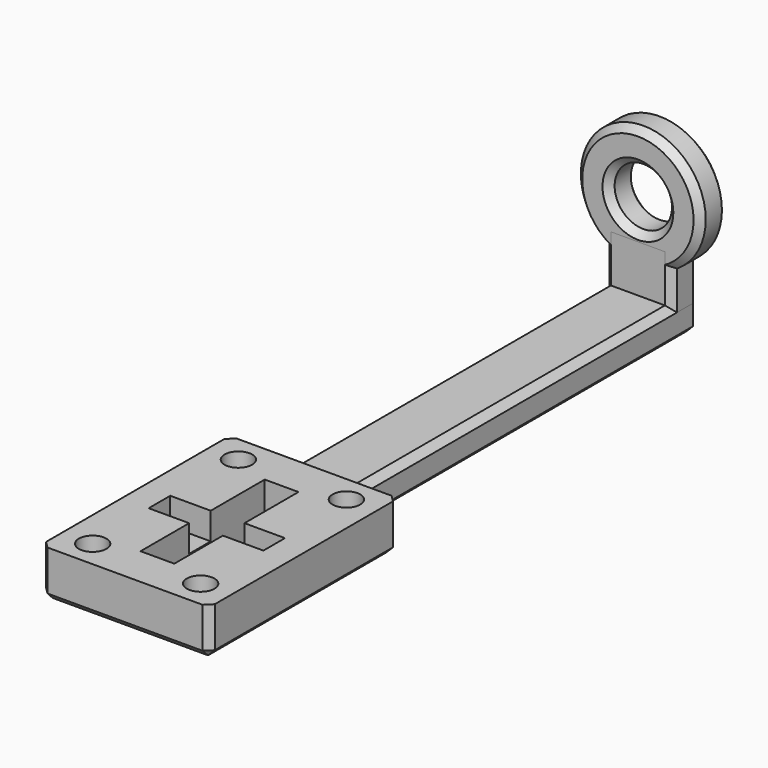
from build123d import *

# Parameters (mm, degrees)
CYLINDER004_R          = 4.25
CYLINDER004_DEPTH      = 5
CYLINDER004_ROLL_ANGLE = 90
CYLINDER005_R          = 9.25
CYLINDER005_DEPTH      = 5
CYLINDER005_ROLL_ANGLE = 90
CHAMFER_SIZE           = 1
BOX003_W               = 10
BOX003_H               = 5
BOX003_DEPTH           = 9
CHAMFER001_SIZE        = 1
BOX001_W               = 10
BOX001_H               = 68
BOX001_DEPTH           = 5
CHAMFER002_SIZE        = 1
BOX004_W               = 17
BOX004_H               = 4
BOX004_DEPTH           = 4
CYLINDER003_R          = 2.05
CYLINDER003_DEPTH      = 7
CYLINDER002_R          = 2.05
CYLINDER002_DEPTH      = 7
CYLINDER001_R          = 2.05
CYLINDER001_DEPTH      = 7
CYLINDER_R             = 2.05
CYLINDER_DEPTH         = 7
BOX002_W               = 5
BOX002_H               = 23
BOX002_DEPTH           = 7
BOX_W                  = 25
BOX_H                  = 35
BOX_DEPTH              = 7
CHAMFER003_SIZE        = 1
CHAMFER004_SIZE        = 0.9
CHAMFER005_SIZE        = 0.9


with BuildPart() as cylinder:
    # Cylinder004 → Cylinder004 (new body)
    with BuildSketch(Plane.XY):
        Circle(CYLINDER004_R)
    extrude(amount=CYLINDER004_DEPTH)


with BuildPart() as cylinder_1:
    # Cylinder004 roll: moved
    add(cylinder.part.rotate(Axis((0, 0, 0), (1, 0, 0)), CYLINDER004_ROLL_ANGLE))


with BuildPart() as cylinder_2:
    # Cylinder004 placement: moved
    add(cylinder_1.part.moved(Location((12.5, 100, 17.5))))


with BuildPart() as chamfer_body:
    # Cylinder005 → Cylinder005 (new body)
    with BuildSketch(Plane.XY):
        Circle(CYLINDER005_R)
    extrude(amount=CYLINDER005_DEPTH)


with BuildPart() as chamfer_body_1:
    # Cylinder005 roll: moved
    add(chamfer_body.part.rotate(Axis((0, 0, 0), (1, 0, 0)), CYLINDER005_ROLL_ANGLE))


with BuildPart() as chamfer_body_2:
    # Cylinder005 placement: moved
    add(chamfer_body_1.part.moved(Location((12.5, 100, 17.5))))

    # Cut005: cut Cylinder
    add(cylinder_2.part, mode=Mode.SUBTRACT)

    # Chamfer
    chamfer_edges = [chamfer_body_2.edges().sort_by_distance(p)[0] for p in [
        (3.25, 95, 17.5),
        (3.25, 100, 17.5),
        (8.25, 95, 17.5),
        (8.25, 100, 17.5),
    ]]
    chamfer(chamfer_edges, length=CHAMFER_SIZE)


with BuildPart() as chamfer001:
    # Box003 → Box003 (new body)
    with BuildSketch(Plane(origin=(7.5, 95, 3), x_dir=(1, 0, 0), z_dir=(0, 0, 1))):
        with Locations((5, 2.5)):
            Rectangle(BOX003_W, BOX003_H)
    extrude(amount=BOX003_DEPTH)

    # Chamfer001
    chamfer001_edges = [chamfer001.edges().sort_by_distance(p)[0] for p in [
        (7.5, 95, 7.5),
        (7.5, 100, 7.5),
        (17.5, 95, 7.5),
        (17.5, 100, 7.5),
    ]]
    chamfer(chamfer001_edges, length=CHAMFER001_SIZE)


with BuildPart() as chamfer002:
    # Box001 → Box001 (new body)
    with BuildSketch(Plane(origin=(7.5, 32, 0), x_dir=(1, 0, 0), z_dir=(0, 0, 1))):
        with Locations((5, 34)):
            Rectangle(BOX001_W, BOX001_H)
    extrude(amount=BOX001_DEPTH)

    # Chamfer002
    chamfer002_edges = [chamfer002.edges().sort_by_distance(p)[0] for p in [
        (7.5, 66, 5),
        (7.5, 100, 2.5),
        (7.5, 66, 0),
        (17.5, 66, 5),
        (17.5, 100, 2.5),
        (17.5, 66, 0),
        (12.5, 100, 0),
    ]]
    chamfer(chamfer002_edges, length=CHAMFER002_SIZE)


with BuildPart() as cube004:
    # Box004 → Box004 (new body)
    with BuildSketch(Plane(origin=(4, 15, 3), x_dir=(1, 0, 0), z_dir=(0, 0, 1))):
        with Locations((8.5, 2)):
            Rectangle(BOX004_W, BOX004_H)
    extrude(amount=BOX004_DEPTH)


with BuildPart() as cylinder003:
    # Cylinder003 → Cylinder003 (new body)
    with BuildSketch(Plane(origin=(20.5, 4, 0), x_dir=(1, 0, 0), z_dir=(0, 0, 1))):
        Circle(CYLINDER003_R)
    extrude(amount=CYLINDER003_DEPTH)


with BuildPart() as cylinder002:
    # Cylinder002 → Cylinder002 (new body)
    with BuildSketch(Plane(origin=(20.5, 31, 0), x_dir=(1, 0, 0), z_dir=(0, 0, 1))):
        Circle(CYLINDER002_R)
    extrude(amount=CYLINDER002_DEPTH)


with BuildPart() as cylinder001:
    # Cylinder001 → Cylinder001 (new body)
    with BuildSketch(Plane(origin=(4.5, 31, 0), x_dir=(1, 0, 0), z_dir=(0, 0, 1))):
        Circle(CYLINDER001_R)
    extrude(amount=CYLINDER001_DEPTH)


with BuildPart() as cylinder000:
    # Cylinder → Cylinder (new body)
    with BuildSketch(Plane(origin=(4.5, 4, 0), x_dir=(1, 0, 0), z_dir=(0, 0, 1))):
        Circle(CYLINDER_R)
    extrude(amount=CYLINDER_DEPTH)


with BuildPart() as cube002:
    # Box002 → Box002 (new body)
    with BuildSketch(Plane(origin=(10, 6, 0), x_dir=(1, 0, 0), z_dir=(0, 0, 1))):
        with Locations((2.5, 11.5)):
            Rectangle(BOX002_W, BOX002_H)
    extrude(amount=BOX002_DEPTH)


with BuildPart() as chamfer005:
    # Box → Box (new body)
    with BuildSketch(Plane.XY):
        with Locations((12.5, 17.5)):
            Rectangle(BOX_W, BOX_H)
    extrude(amount=BOX_DEPTH)

    # Cut: cut Cube002
    add(cube002.part, mode=Mode.SUBTRACT)

    # Cut001: cut Cylinder000
    add(cylinder000.part, mode=Mode.SUBTRACT)

    # Cut002: cut Cylinder001
    add(cylinder001.part, mode=Mode.SUBTRACT)

    # Cut003: cut Cylinder002
    add(cylinder002.part, mode=Mode.SUBTRACT)

    # Cut004: cut Cylinder003
    add(cylinder003.part, mode=Mode.SUBTRACT)

    # Chamfer003
    chamfer003_edges = [chamfer005.edges().sort_by_distance(p)[0] for p in [
        (0, 0, 3.5),
        (0, 35, 3.5),
        (0, 17.5, 0),
        (12.5, 0, 0),
        (25, 0, 3.5),
        (12.5, 35, 0),
        (25, 35, 3.5),
        (25, 17.5, 0),
    ]]
    chamfer(chamfer003_edges, length=CHAMFER003_SIZE)

    # Cut006: cut Cube004
    add(cube004.part, mode=Mode.SUBTRACT)

    # Chamfer004
    chamfer004_edges = [chamfer005.edges().sort_by_distance(p)[0] for p in [
        (18.45, 31, 0),
    ]]
    chamfer(chamfer004_edges, length=CHAMFER004_SIZE)

    # Chamfer005
    chamfer005_edges = [chamfer005.edges().sort_by_distance(p)[0] for p in [
        (2.45, 4, 0),
        (2.45, 31, 0),
        (18.45, 4, 0),
    ]]
    chamfer(chamfer005_edges, length=CHAMFER005_SIZE)


solid = Compound([chamfer_body_2.part, chamfer001.part, chamfer002.part, chamfer005.part])
